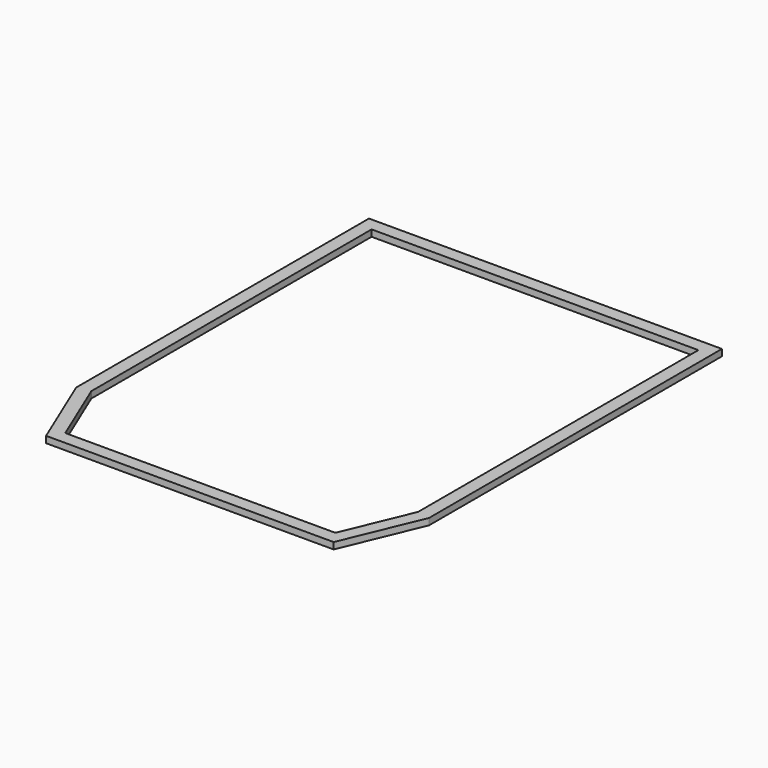
from build123d import *

# Parameters (mm, degrees)
F1_DEPTH = 12.5


with BuildPart() as f1:
    # F0 (on Top) → F1 (new body, symmetric)
    with BuildSketch(Plane.XY):
        Polygon((-550, -850), (0, -850), (550, -850), (675, -550), (675, 850), (0, 850), (-675, 850), (-675, -550), align=None)
        Polygon((0, -800), (-516.666667, -800), (-625, -540), (-625, 800), (0, 800), (625, 800), (625, -540), (516.666667, -800), align=None, mode=Mode.SUBTRACT)
    extrude(amount=F1_DEPTH, both=True)


solid = f1.part
